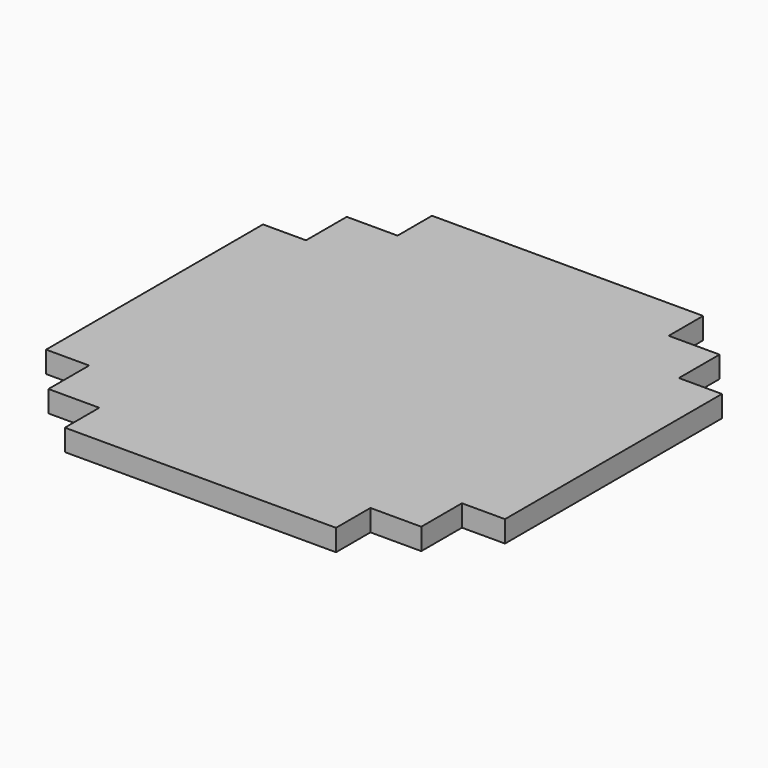
from build123d import *

# Parameters (mm, degrees)
F0_W     = 40
F0_H     = 6.35
F0_W_2   = 6.35
F0_H_2   = 40
F1_DEPTH = 3.175


with BuildPart() as f1:
    # F0 (on Top) → F1 (new body)
    with BuildSketch(Plane.XY):
        Polygon((-20, 0), (-27.5, 0), (-27.5, -7.5), (-27.5, -47.5), (-27.5, -55), (-20, -55), (20, -55), (27.5, -55), (27.5, -47.5), (27.5, -7.5), (27.5, 0), (20, 0), align=None)
        with Locations((0, 3.175)):
            Rectangle(F0_W, F0_H)
        with Locations((-30.675, -27.5)):
            Rectangle(F0_W_2, F0_H_2)
        with Locations((30.675, -27.5)):
            Rectangle(F0_W_2, F0_H_2)
        with Locations((0, -58.175)):
            Rectangle(F0_W, F0_H)
    extrude(amount=F1_DEPTH)


solid = f1.part
